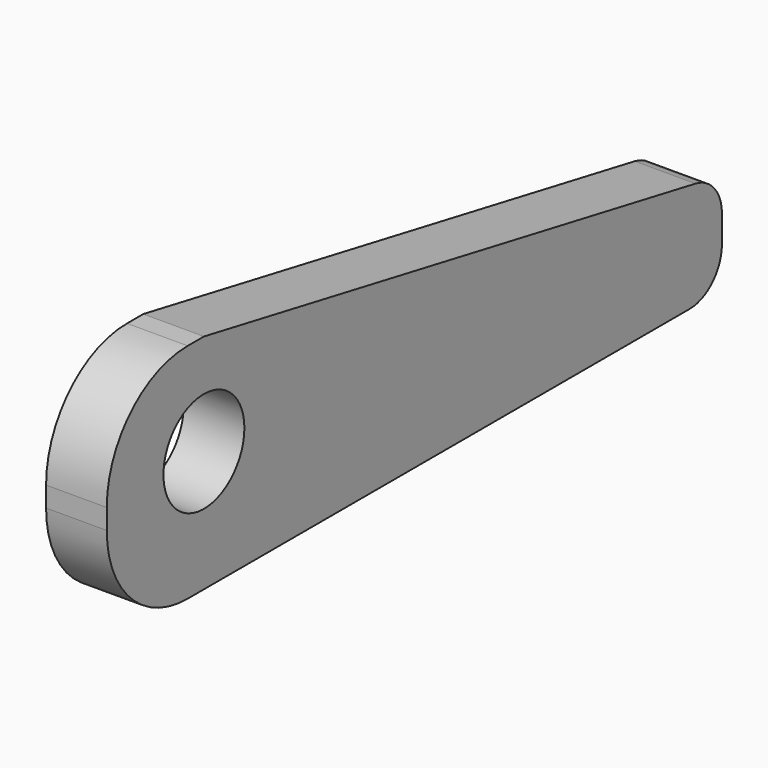
from build123d import *

# Parameters (mm, degrees)
F0_R     = 2.5
F1_DEPTH = 3
F2_R     = 2
F3_R     = 5
F4_R     = 2


with BuildPart() as f1:
    # F0 (on Right) → F1 (new body)
    with BuildSketch(Plane.YZ):
        Polygon((-19, 11), (-19, 0), (19, 0), (19, 5), (-13, 11), align=None)
        with Locations((-13, 6)):
            Circle(F0_R, mode=Mode.SUBTRACT)
    extrude(amount=F1_DEPTH)

    # F2
    f2_edges = [f1.edges().sort_by_distance(p)[0] for p in [
        (1.5, 19, 0),
    ]]
    fillet(f2_edges, radius=F2_R)

    # F3
    f3_edges = [f1.edges().sort_by_distance(p)[0] for p in [
        (1.5, -19, 11),
        (1.5, -19, 0),
    ]]
    fillet(f3_edges, radius=F3_R)

    # F4
    f4_edges = [f1.edges().sort_by_distance(p)[0] for p in [
        (1.5, 19, 5),
    ]]
    fillet(f4_edges, radius=F4_R)


solid = f1.part
